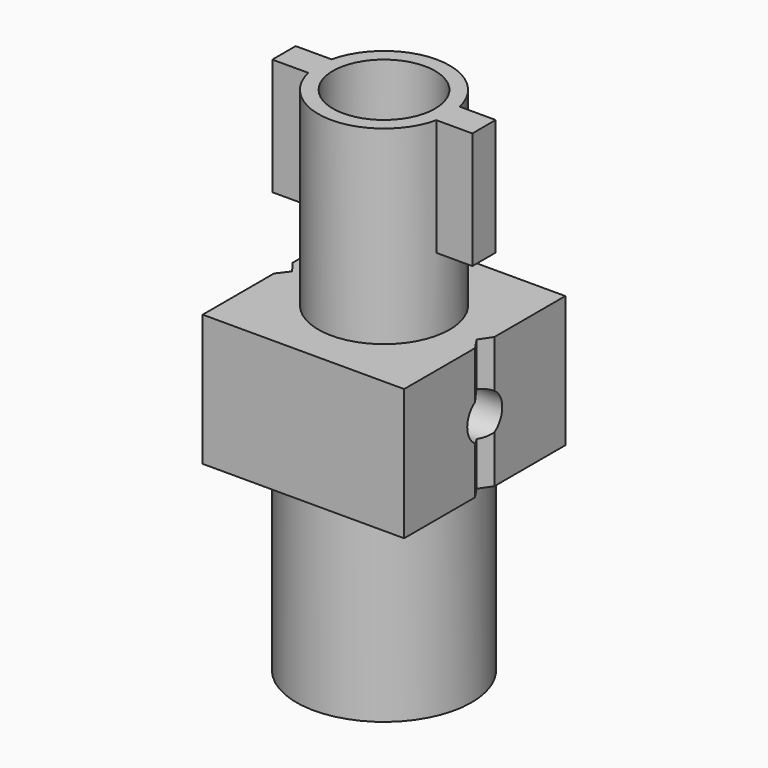
from build123d import *

# Parameters (mm, degrees)
F0_W      = 13.8
F0_H      = 13.8
F1_DEPTH  = 4.5
F2_R      = 4.5
F2_R_2    = 3.5
F3_DEPTH  = 13
F4_R      = 6
F5_DEPTH  = 13
F6_R      = 1.5
F7_DEPTH  = 13.801
F9_DEPTH  = 22.001
F10_W     = 3.2331479252
F10_H     = 2
F11_DEPTH = 8
F13_DEPTH = 9


with BuildPart() as f1:
    # F0 (on Top) → F1 (new body, symmetric)
    with BuildSketch(Plane.XY):
        Rectangle(F0_W, F0_H)
    extrude(amount=F1_DEPTH, both=True)

    # F2 (on face) → F3 (join)
    with BuildSketch(Plane.XY.offset(4.5)):
        Circle(F2_R)
        Circle(F2_R_2, mode=Mode.SUBTRACT)
    extrude(amount=F3_DEPTH)

    # F4 (on face) → F5 (join)
    with BuildSketch(Plane(origin=(0, 0, -4.5), x_dir=(1, 0, 0), z_dir=(0, 0, -1))):
        Circle(F4_R)
    extrude(amount=F5_DEPTH)

    # F6 (on face) → F7 (cut, through all)
    with BuildSketch(Plane.YZ.offset(6.9)):
        Circle(F6_R)
    extrude(amount=-F7_DEPTH, mode=Mode.SUBTRACT)

    # F8 (on face) → F9 (cut, through all)
    with BuildSketch(Plane(origin=(0, 0, -4.5), x_dir=(1, 0, 0), z_dir=(0, 0, -1))):
        Polygon((6.9, 0.8288529099), (6.3405334204, 0), (6.9, -0.8288529099), align=None)
        Polygon((-6.9, -0.7952927344), (-6.2937744095, 0), (-6.9, 0.7952927344), align=None)
    extrude(amount=-F9_DEPTH, mode=Mode.SUBTRACT)

    # F10 (on face) → F11 (join)
    with BuildSketch(Plane.XY.offset(17.5)):
        with Locations((-5.2334260374, 0)):
            Rectangle(F10_W, F10_H)
        with Locations((5.2334260374, 0)):
            Rectangle(F10_W, F10_H)
    extrude(amount=-F11_DEPTH)

    # F12 (on face) → F13 (cut)
    with BuildSketch(Plane(origin=(0, 0, -17.5), x_dir=(1, 0, 0), z_dir=(0, 0, -1))):
        with BuildLine():
            Line((4.51937948, -1.827794878), (0.6767729427, 4.827794878))
            ThreePointArc((0.6767729427, 4.827794878), (0, 4.875), (-0.6767729427, 4.827794878))
            Line((-0.6767729427, 4.827794878), (-4.51937948, -1.827794878))
            ThreePointArc((-4.51937948, -1.827794878), (-4.2218738434, -2.4375), (-3.8426065372, -3))
            Line((-3.8426065372, -3), (3.8426065372, -3))
            ThreePointArc((3.8426065372, -3), (4.2218738434, -2.4375), (4.51937948, -1.827794878))
        make_face()
    extrude(amount=-F13_DEPTH, mode=Mode.SUBTRACT)


solid = f1.part
